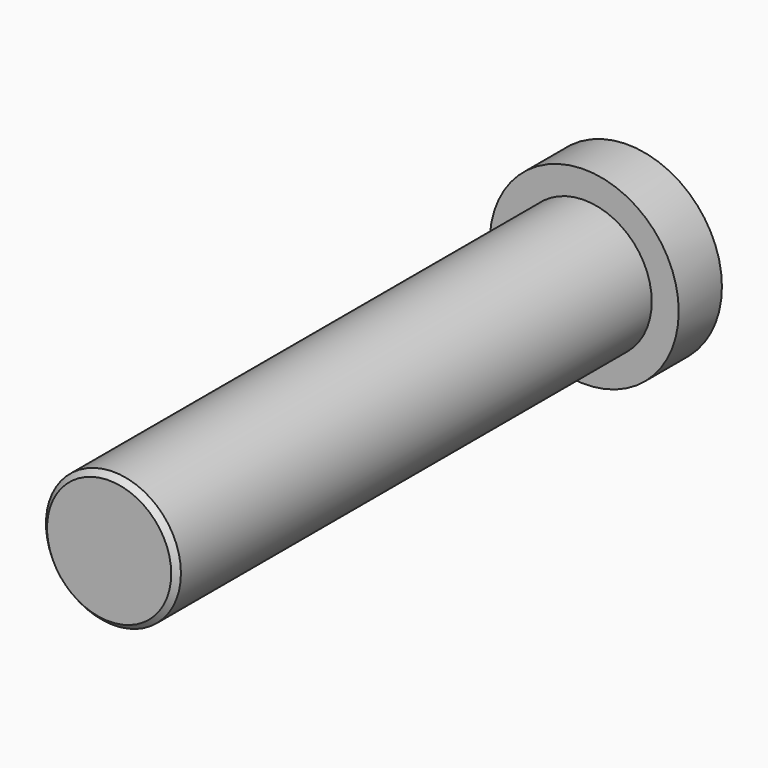
from build123d import *

# Parameters (mm, degrees)
F0_R     = 12.5
F1_DEPTH = 120
F2_SIZE  = 1
F3_R     = 17.5
F4_DEPTH = 10


with BuildPart() as f1:
    # F0 (on Front) → F1 (new body)
    with BuildSketch(Plane.XZ):
        Circle(F0_R)
    extrude(amount=F1_DEPTH)

    # F2
    f2_edges = [f1.edges().sort_by_distance(p)[0] for p in [
        (-12.5, -120, 0),
        (-12.5, 0, 0),
    ]]
    chamfer(f2_edges, length=F2_SIZE)

    # F3 (on Front) → F4 (join)
    with BuildSketch(Plane.XZ):
        Circle(F3_R)
    extrude(amount=F4_DEPTH)


solid = f1.part
